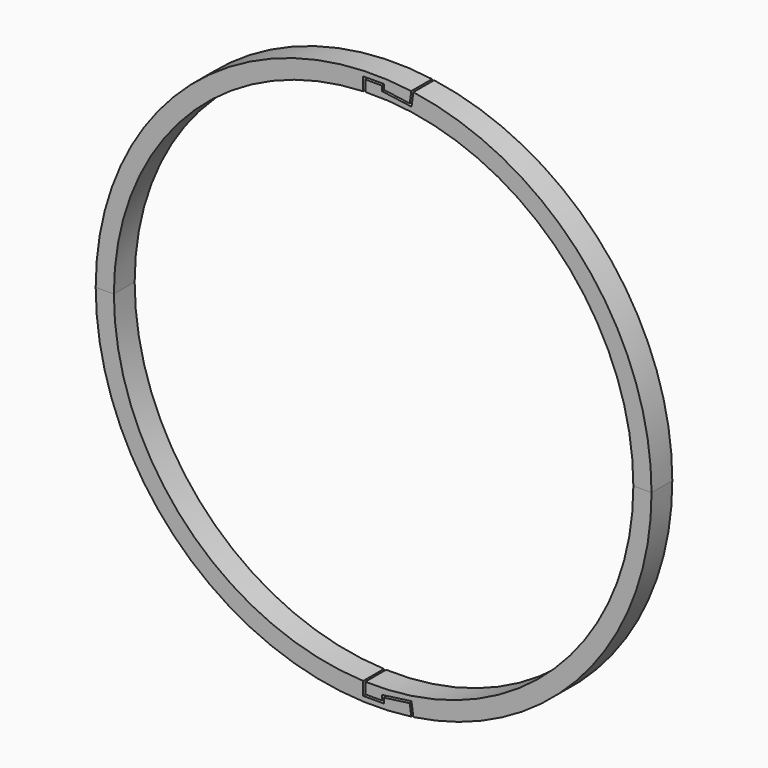
from build123d import *

# Parameters (mm, degrees)
F2_DEPTH = 10
F4_DEPTH = 10


with BuildPart() as f2:
    # F0 (on Front) → F2 (new body)
    with BuildSketch(Plane.XZ):
        with BuildLine():
            Line((4, 105), (4, 103))
            Line((4, 103), (13.907686, 101.644362))
            Line((13.907686, 101.644362), (14.50533, 106.012242))
            ThreePointArc((14.50533, 106.012242), (-70.345326, 80.625896), (-107, 0))
            Line((-107, 0), (-100, 0))
            ThreePointArc((-100, 0), (-72.111026, 69.282032), (-4, 99.919968))
            Line((-4, 99.919968), (-4, 105))
            Line((-4, 105), (4, 105))
        make_face()
    extrude(amount=F2_DEPTH)


with BuildPart() as f3_1:
    # F3: instance of F2
    add(f2.part.mirror(Plane.XY))


with BuildPart() as f4:
    # F1 (on Front) → F4 (new body)
    with BuildSketch(Plane.XZ):
        with BuildLine():
            ThreePointArc((-3.2, 99.948787), (69.570108, 71.83314), (100, 0))
            Line((100, 0), (107, 0))
            ThreePointArc((107, 0), (80.888308, 70.043427), (15.297539, 105.900828))
            Line((15.297539, 105.900828), (14.59185, 100.743296))
            Line((14.59185, 100.743296), (3.2, 102.302008))
            Line((3.2, 102.302008), (3.2, 104.2))
            Line((3.2, 104.2), (-3.2, 104.2))
            Line((-3.2, 104.2), (-3.2, 99.948787))
        make_face()
    extrude(amount=F4_DEPTH)


with BuildPart() as f5_1:
    # F5: instance of F4
    add(f4.part.mirror(Plane.XY))


solid = Compound([f2.part, f3_1.part, f4.part, f5_1.part])
